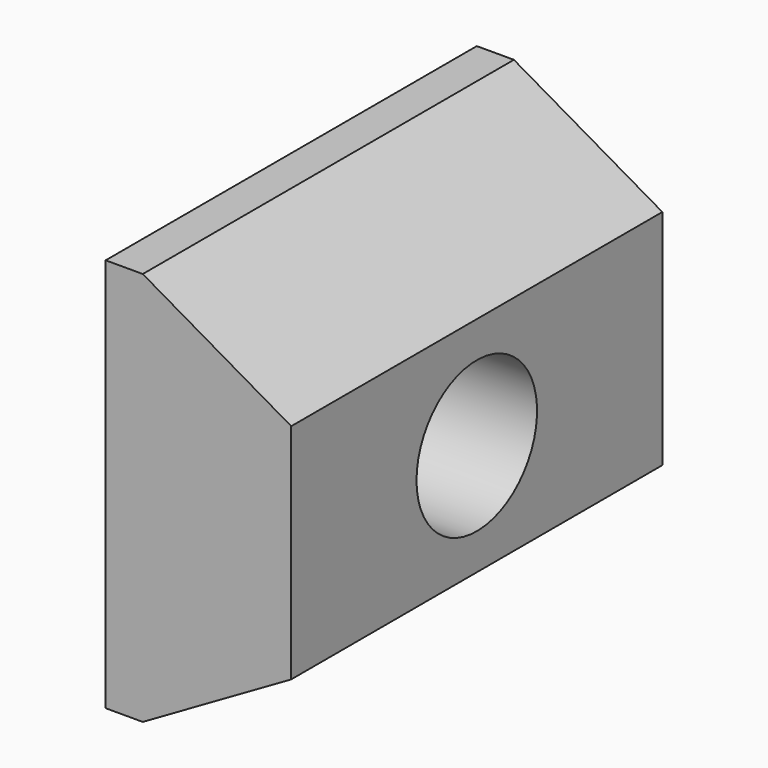
from build123d import *

# Parameters (mm, degrees)
F1_DEPTH = 31.75
F3_D     = 10.3124


with BuildPart() as f1:
    # F0 (on Front) → F1 (new body)
    with BuildSketch(Plane.XZ):
        Polygon((-56.233615, 56.124773), (-58.773615, 56.124773), (-58.773615, 29.137273), (-56.233615, 29.137273), (-46.073615, 35.003151), (-46.073615, 50.258894), align=None)
    extrude(amount=F1_DEPTH)

    # F3 (through all)
    with Locations(Plane.YZ.offset(-46.073615)):
        with Locations((-15.875, 42.631023)):
            Hole(F3_D / 2)


solid = f1.part
